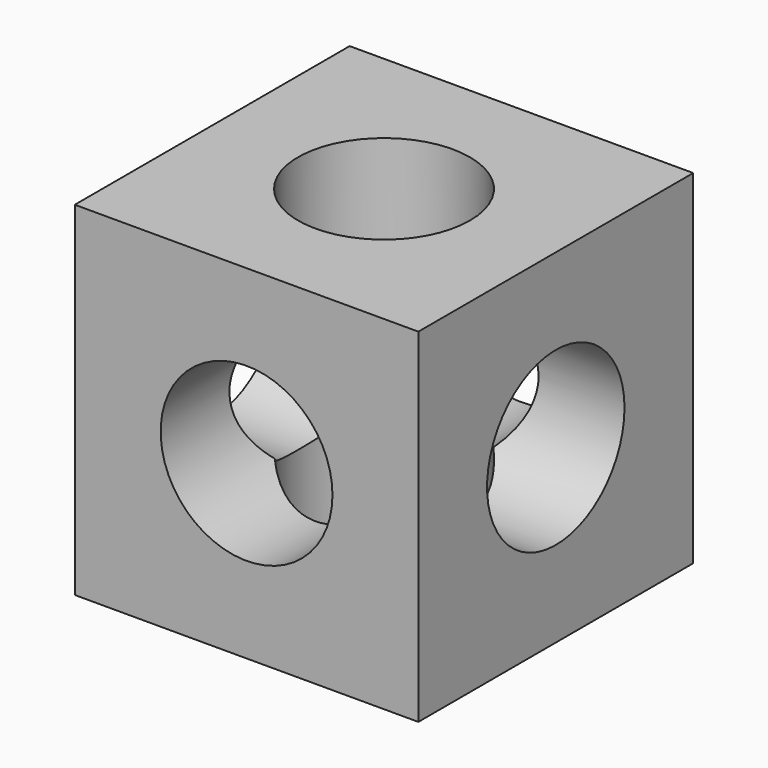
from build123d import *

# Parameters (mm, degrees)
F0_W     = 101.6
F0_H     = 101.6
F1_DEPTH = 50.8
F2_R     = 25.4
F3_DEPTH = 101.601
F4_R     = 25.4
F5_DEPTH = 101.601
F6_R     = 25.4
F7_DEPTH = 101.601


with BuildPart() as f1:
    # F0 (on Front) → F1 (new body, symmetric)
    with BuildSketch(Plane.XZ):
        Rectangle(F0_W, F0_H)
    extrude(amount=F1_DEPTH, both=True)

    # F2 (on face) → F3 (cut, through all)
    with BuildSketch(Plane.XY.offset(50.8)):
        Circle(F2_R)
    extrude(amount=-F3_DEPTH, mode=Mode.SUBTRACT)

    # F4 (on face) → F5 (cut, through all)
    with BuildSketch(Plane.XZ.offset(50.8)):
        Circle(F4_R)
    extrude(amount=-F5_DEPTH, mode=Mode.SUBTRACT)

    # F6 (on face) → F7 (cut, through all)
    with BuildSketch(Plane.YZ.offset(50.8)):
        Circle(F6_R)
    extrude(amount=-F7_DEPTH, mode=Mode.SUBTRACT)


solid = f1.part
